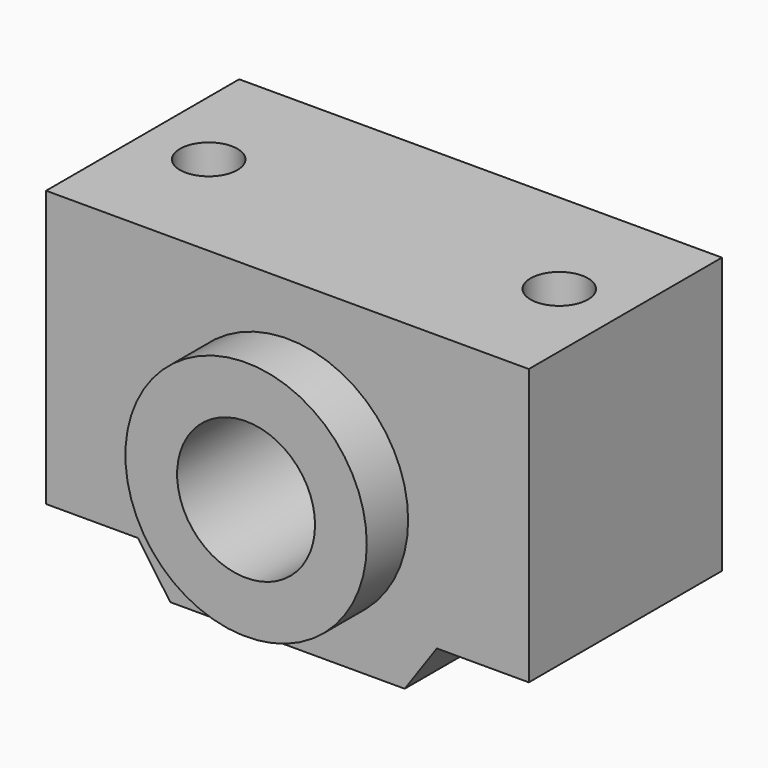
from build123d import *

# Parameters (mm, degrees)
F0_R     = 10.5
F0_R_2   = 6
F1_DEPTH = 15
F2_DEPTH = 10.5
F3_R     = 2.5
F4_DEPTH = 12


with BuildPart() as f1:
    # F0 (on Front) → F1 (new body, symmetric)
    with BuildSketch(Plane.XZ):
        Circle(F0_R)
        Circle(F0_R_2, mode=Mode.SUBTRACT)
    extrude(amount=F1_DEPTH, both=True)

    # F0 (on Front) → F2 (join, symmetric)
    with BuildSketch(Plane.XZ):
        Polygon((21, 15), (0, 15), (-21, 15), (-21, -9), (-13, -9), (-10.1991698472, -13), (10.1991698472, -13), (13, -9), (21, -9), align=None)
        Circle(F0_R, mode=Mode.SUBTRACT)
    extrude(amount=F2_DEPTH, both=True)

    # F3 (on face) → F4 (cut)
    with BuildSketch(Plane.XY.offset(15)):
        with Locations((-15.25, 0)):
            Circle(F3_R)
        with Locations((15.25, 0)):
            Circle(F3_R)
    extrude(amount=-F4_DEPTH, mode=Mode.SUBTRACT)


solid = f1.part
